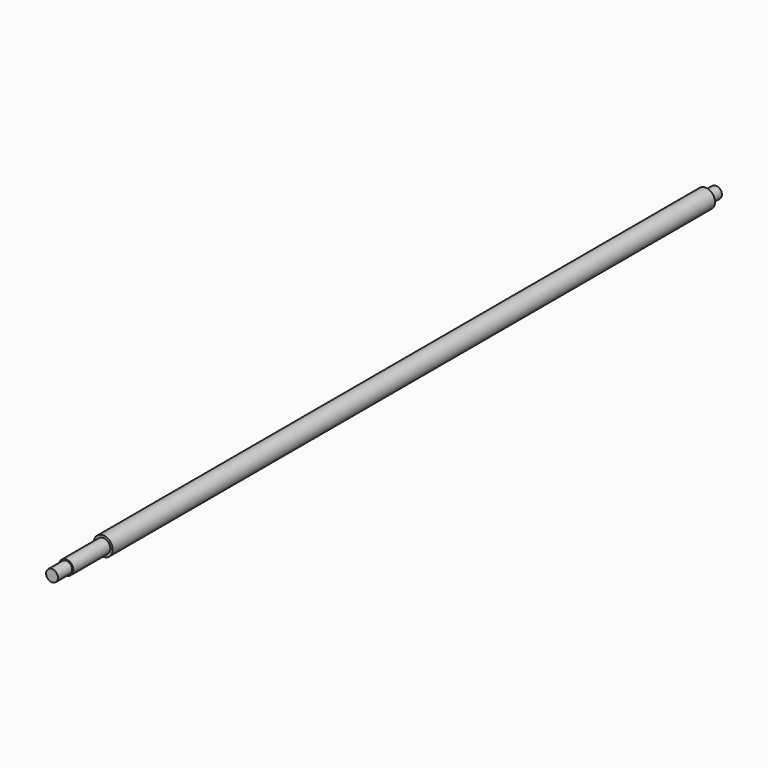
from build123d import *

# Parameters (mm, degrees)
SKETCH_R     = 5
PAD_DEPTH    = 15
SKETCH001_R  = 6
PAD001_DEPTH = 39
SKETCH002_R  = 8
PAD002_DEPTH = 635
SKETCH003_R  = 5
PAD003_DEPTH = 11


with BuildPart() as part:
    # Sketch → Pad (new body)
    with BuildSketch(Plane.XZ):
        Circle(SKETCH_R)
    extrude(amount=-PAD_DEPTH)

    # Sketch001 (on Face3 of Pad) → Pad001 (join)
    with BuildSketch(Plane(origin=(0, 15, 0), x_dir=(1, 0, 0), z_dir=(0, 1, 0))):
        Circle(SKETCH001_R)
    extrude(amount=PAD001_DEPTH)

    # Sketch002 (on Face3 of Pad001) → Pad002 (join)
    with BuildSketch(Plane(origin=(0, 54, 0), x_dir=(1, 0, 0), z_dir=(0, 1, 0))):
        Circle(SKETCH002_R)
    extrude(amount=PAD002_DEPTH)

    # Sketch003 (on Face3 of Pad002) → Pad003 (join)
    with BuildSketch(Plane(origin=(0, 689, 0), x_dir=(1, 0, 0), z_dir=(0, 1, 0))):
        Circle(SKETCH003_R)
    extrude(amount=PAD003_DEPTH)


solid = part.part
